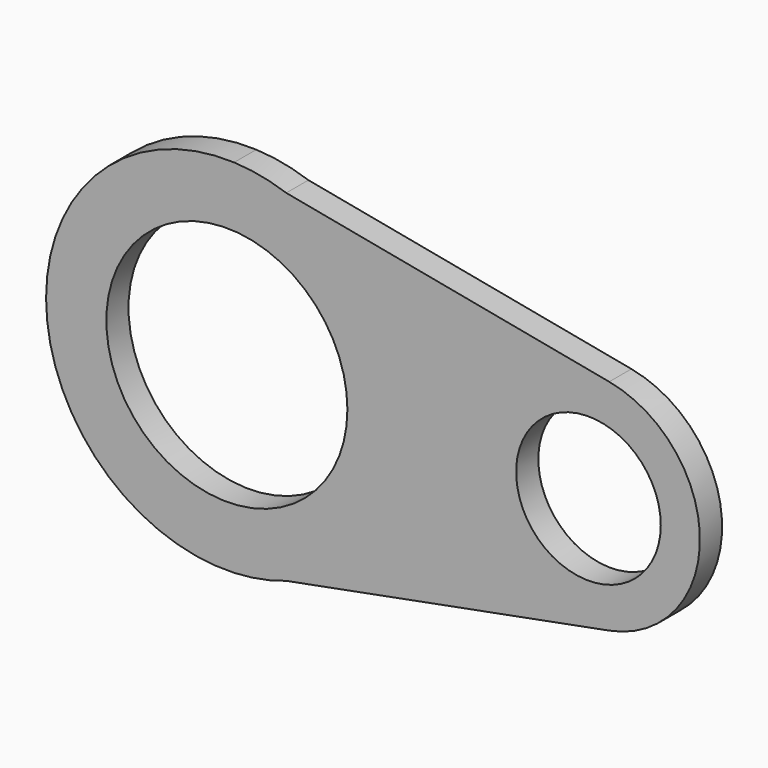
from build123d import *

# Parameters (mm, degrees)
F0_R     = 25.4
F0_R_2   = 15.24
F1_DEPTH = 5.588
F2_DEPTH = 5.842


with BuildPart() as f1:
    # F0 (on Front) → F1 (new body)
    with BuildSketch(Plane.XZ):
        with BuildLine():
            Line((-75.400114, 38.069274), (-64.420203, 35.987728))
            ThreePointArc((-64.420203, 35.987728), (-69.833424, 37.433267), (-75.400114, 38.069274))
        make_face()
        with BuildLine():
            Line((3.646246, 23.083848), (-64.420203, 35.987728))
            Line((-64.420203, 35.987728), (-75.400114, 38.069274))
            ThreePointArc((-75.400114, 38.069274), (-115.029936, 0), (-75.400114, -38.069274))
            Line((-75.400114, -38.069274), (-64.420203, -35.987728))
            Line((-64.420203, -35.987728), (3.646246, -23.083848))
            ThreePointArc((3.646246, -23.083848), (22.765064, 0), (3.646246, 23.083848))
        make_face()
        with Locations((-76.929936, 0)):
            Circle(F0_R, mode=Mode.SUBTRACT)
        with Locations((-0.729936, 0)):
            Circle(F0_R_2, mode=Mode.SUBTRACT)
        with BuildLine():
            Line((-64.420203, -35.987728), (-75.400114, -38.069274))
            ThreePointArc((-75.400114, -38.069274), (-69.833424, -37.433267), (-64.420203, -35.987728))
        make_face()
    extrude(amount=F1_DEPTH)

    # F0 (on Front) → F2 (join)
    with BuildSketch(Plane.XZ):
        with BuildLine():
            Line((-75.400114, 38.069274), (-64.420203, 35.987728))
            ThreePointArc((-64.420203, 35.987728), (-69.833424, 37.433267), (-75.400114, 38.069274))
        make_face()
        with BuildLine():
            Line((3.646246, 23.083848), (-64.420203, 35.987728))
            Line((-64.420203, 35.987728), (-75.400114, 38.069274))
            ThreePointArc((-75.400114, 38.069274), (-115.029936, 0), (-75.400114, -38.069274))
            Line((-75.400114, -38.069274), (-64.420203, -35.987728))
            Line((-64.420203, -35.987728), (3.646246, -23.083848))
            ThreePointArc((3.646246, -23.083848), (22.765064, 0), (3.646246, 23.083848))
        make_face()
        with Locations((-76.929936, 0)):
            Circle(F0_R, mode=Mode.SUBTRACT)
        with Locations((-0.729936, 0)):
            Circle(F0_R_2, mode=Mode.SUBTRACT)
        with BuildLine():
            Line((-64.420203, -35.987728), (-75.400114, -38.069274))
            ThreePointArc((-75.400114, -38.069274), (-69.833424, -37.433267), (-64.420203, -35.987728))
        make_face()
    extrude(amount=F2_DEPTH)


solid = f1.part
